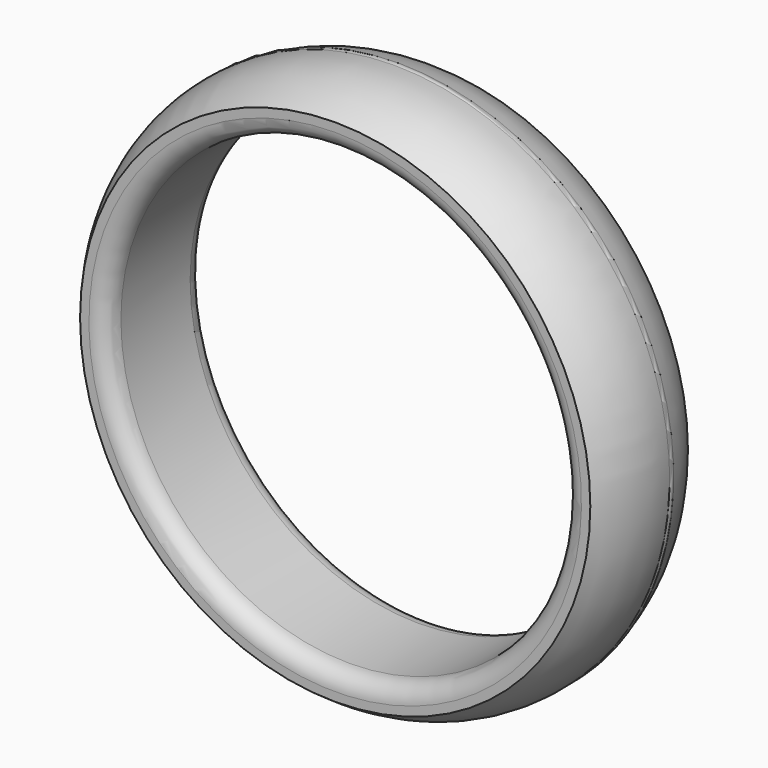
from build123d import *

# Parameters (mm, degrees)
F6_R = 0.8


with BuildPart() as f3:
    # F2 (on Right) → F3 (revolve)
    with BuildSketch(Plane.YZ):
        with BuildLine():
            Line((-2.75, 11.5), (-2.75, 10.3))
            Line((-2.75, 10.3), (2.75, 10.3))
            Line((2.75, 10.3), (2.75, 11.2))
            Line((2.75, 11.2), (0.6, 11.2))
            Line((0.6, 11.2), (0.6, 11.8488059788))
            Line((0.6, 11.8488059788), (0.6, 12.397868912))
            ThreePointArc((0.6, 12.397868912), (-1.1649751696, 12.2846369334), (-2.75, 11.5))
        make_face()
    revolve(axis=Axis((0, 7.8418560492, 0), (0, 1, 0)))

    # F6
    f6_edges = [f3.edges().sort_by_distance(p)[0] for p in [
        (0, -2.75, -10.3),
        (0, 2.75, -10.3),
    ]]
    fillet(f6_edges, radius=F6_R)


with BuildPart() as f4:
    # F2 (on Right) → F4 (revolve)
    with BuildSketch(Plane.YZ):
        with BuildLine():
            Line((0.6, 11.2), (2.75, 11.2))
            Line((2.75, 11.2), (2.75, 11.5))
            ThreePointArc((2.75, 11.5), (1.8696796947, 12.0312497047), (0.8917491749, 12.3488059788))
            Line((0.8917491749, 12.3488059788), (0.8917491749, 11.8488059788))
            Line((0.8917491749, 11.8488059788), (0.6, 11.8488059788))
            Line((0.6, 11.8488059788), (0.6, 11.2))
        make_face()
    revolve(axis=Axis((0, 7.8418560492, 0), (0, 1, 0)))


with BuildPart() as f5:
    # F2 (on Right) → F5 (revolve)
    with BuildSketch(Plane.YZ):
        with BuildLine():
            ThreePointArc((0.8917491749, 12.3488059788), (0.7526960928, 12.4139010323), (0.6, 12.397868912))
            Line((0.6, 12.397868912), (0.6, 11.8488059788))
            Line((0.6, 11.8488059788), (0.8917491749, 11.8488059788))
            Line((0.8917491749, 11.8488059788), (0.8917491749, 12.3488059788))
        make_face()
    revolve(axis=Axis((0, 7.8418560492, 0), (0, 1, 0)))


solid = Compound([f3.part, f4.part, f5.part])
